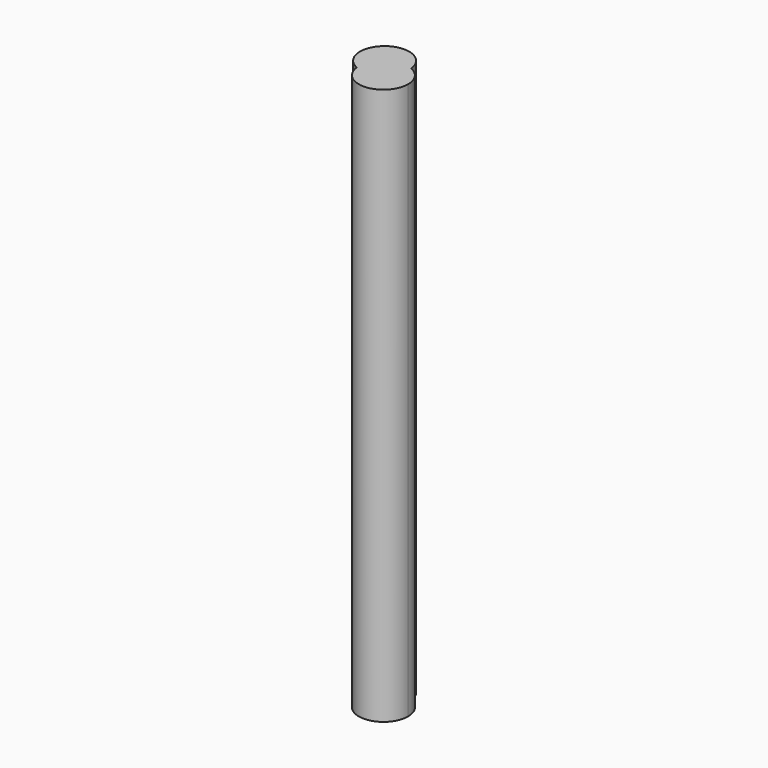
from build123d import *

# Parameters (mm, degrees)
F1_DEPTH = 762


with BuildPart() as f1:
    # F0 (on Top) → F1 (new body)
    with BuildSketch(Plane.XY):
        with BuildLine():
            ThreePointArc((-13.4045012435, -30.9016660698), (18.48080123, -28.1612074558), (33.6837292988, 0))
            ThreePointArc((33.6837292988, 0), (33.628721673, 1.9242396195), (33.4638784574, 3.842194433))
            ThreePointArc((33.4638784574, 3.842194433), (0, 0), (-13.4045012435, -30.9016660698))
        make_face()
        with BuildLine():
            ThreePointArc((33.4638784574, 3.842194433), (33.628721673, 1.9242396195), (33.6837292988, 0))
            ThreePointArc((33.6837292988, 0), (18.48080123, -28.1612074558), (-13.4045012435, -30.9016660698))
            ThreePointArc((-13.4045012435, -30.9016660698), (21.9836168335, -60.6881933098), (53.7431065127, -27.0594716368))
            ThreePointArc((53.7431065127, -27.0594716368), (48.2205846698, -8.5786704068), (33.4638784574, 3.842194433))
        make_face()
        with BuildLine():
            ThreePointArc((-13.4045012435, -30.9016660698), (0, 0), (33.4638784574, 3.842194433))
            ThreePointArc((33.4638784574, 3.842194433), (-20.0593772139, 27.0594716368), (-13.4045012435, -30.9016660698))
        make_face()
    extrude(amount=F1_DEPTH)


solid = f1.part
